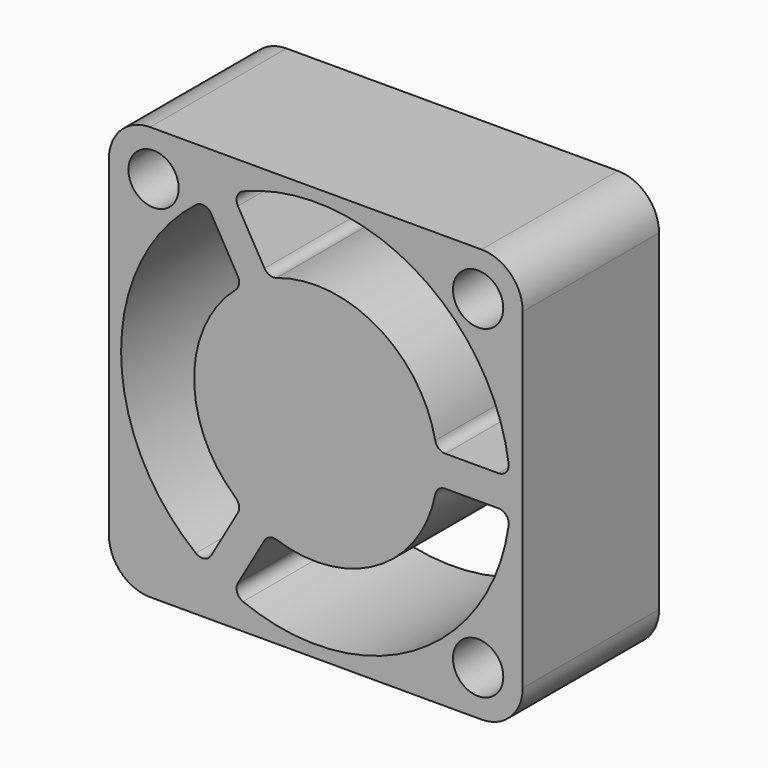
from build123d import *

# Parameters (mm, degrees)
F0_W     = 25.5
F0_H     = 25.5
F1_DEPTH = 10.5
F2_R     = 2.54
F3_R     = 1.55
F4_DEPTH = 10.501


with BuildPart() as f1:
    # F0 (on Front) → F1 (new body)
    with BuildSketch(Plane.XZ):
        Rectangle(F0_W, F0_H)
    extrude(amount=F1_DEPTH)

    # F2
    f2_edges = [f1.edges().sort_by_distance(p)[0] for p in [
        (12.75, -5.25, 12.75),
        (-12.75, -5.25, 12.75),
        (12.75, -5.25, -12.75),
        (-12.75, -5.25, -12.75),
    ]]
    fillet(f2_edges, radius=F2_R)

    # F3 (on face) → F4 (cut, through all)
    with BuildSketch(Plane.XZ.offset(10.5)):
        with Locations((-10, 10)):
            Circle(F3_R)
        with Locations((10, 10)):
            Circle(F3_R)
        with Locations((10, -10)):
            Circle(F3_R)
        with BuildLine():
            ThreePointArc((-4.945405, -5.638526), (-7.5, 0), (-4.945405, 5.638526))
            ThreePointArc((-4.945405, 5.638526), (-4.737594, 6.0125), (-4.81419, 6.433421))
            Line((-4.81419, 6.433421), (-6.451679, 9.269636))
            ThreePointArc((-6.451679, 9.269636), (-6.880602, 9.575501), (-7.392808, 9.452322))
            ThreePointArc((-7.392808, 9.452322), (-12, 0), (-7.392808, -9.452322))
            ThreePointArc((-7.392808, -9.452322), (-6.880602, -9.575501), (-6.451679, -9.269636))
            Line((-6.451679, -9.269636), (-4.81419, -6.433421))
            ThreePointArc((-4.81419, -6.433421), (-4.737594, -6.0125), (-4.945405, -5.638526))
        make_face()
        with BuildLine():
            Line((-4.801901, 10.222136), (-3.164411, 7.385921))
            ThreePointArc((-3.164411, 7.385921), (-2.83818, 7.109127), (-2.410404, 7.102109))
            ThreePointArc((-2.410404, 7.102109), (3.75, 6.495191), (7.355809, 1.463583))
            ThreePointArc((7.355809, 1.463583), (7.575774, 1.096627), (7.978601, 0.9525))
            Line((7.978601, 0.9525), (11.25358, 0.9525))
            ThreePointArc((11.25358, 0.9525), (11.732928, 1.171026), (11.882355, 1.676199))
            ThreePointArc((11.882355, 1.676199), (6, 10.392305), (-4.489547, 11.128521))
            ThreePointArc((-4.489547, 11.128521), (-4.852326, 10.746527), (-4.801901, 10.222136))
        make_face()
        with BuildLine():
            Line((11.25358, -0.9525), (7.978601, -0.9525))
            ThreePointArc((7.978601, -0.9525), (7.575774, -1.096627), (7.355809, -1.463583))
            ThreePointArc((7.355809, -1.463583), (3.75, -6.495191), (-2.410404, -7.102109))
            ThreePointArc((-2.410404, -7.102109), (-2.83818, -7.109127), (-3.164411, -7.385921))
            Line((-3.164411, -7.385921), (-4.801901, -10.222136))
            ThreePointArc((-4.801901, -10.222136), (-4.852326, -10.746527), (-4.489547, -11.128521))
            ThreePointArc((-4.489547, -11.128521), (6, -10.392305), (11.882355, -1.676199))
            ThreePointArc((11.882355, -1.676199), (11.732928, -1.171026), (11.25358, -0.9525))
        make_face()
    extrude(amount=-F4_DEPTH, mode=Mode.SUBTRACT)


solid = f1.part
